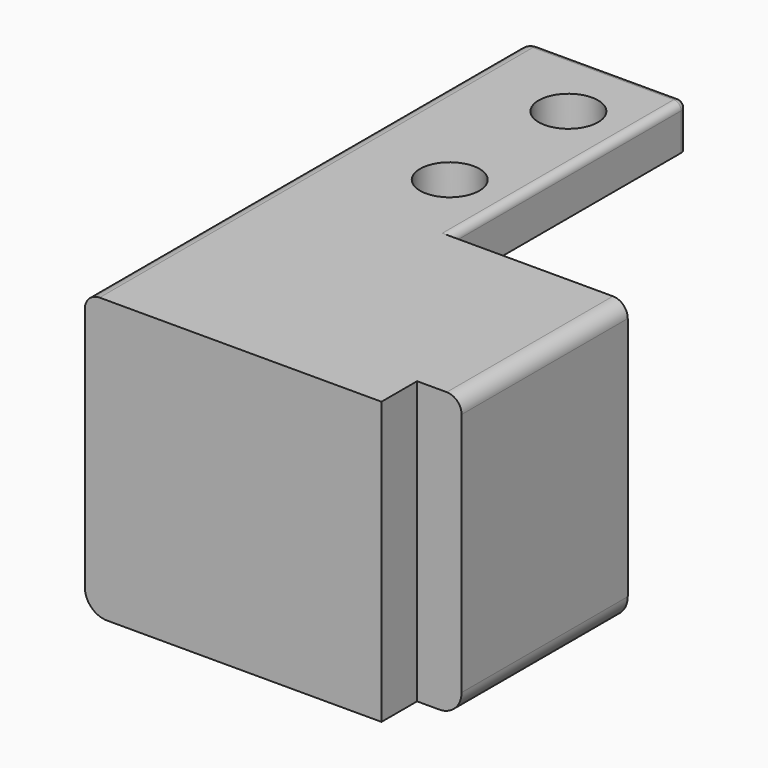
from build123d import *

# Parameters (mm, degrees)
SKETCH_W     = 12
SKETCH_H     = 14
SKETCH_R     = 2.5
PAD_DEPTH    = 3
SKETCH001_W  = 2
SKETCH001_H  = 14
PAD001_DEPTH = 16
SKETCH002_W  = 14
SKETCH002_H  = 3
PAD008_DEPTH = 10
SKETCH004_W  = 14
SKETCH004_H  = 3
PAD004_DEPTH = 8
SKETCH003_W  = 34
SKETCH003_H  = 3
PAD009_DEPTH = 8
SKETCH006_R  = 2
POCKET_DEPTH = 19.001
PAD005_DEPTH = 3
SKETCH008_W  = 20
SKETCH008_H  = 19
PAD006_DEPTH = 3
SKETCH009_W  = 2
SKETCH009_H  = 19
PAD007_DEPTH = 2
FILLET_R     = 1.5
FILLET001_R  = 1.5
FILLET002_R  = 1
FILLET003_R  = 1
FILLET004_R  = 0.5
FILLET005_R  = 0.5


with BuildPart() as part:
    # Sketch → Pad (new body)
    with BuildSketch(Plane.XY):
        with Locations((1, 0)):
            Rectangle(SKETCH_W, SKETCH_H)
        Circle(SKETCH_R, mode=Mode.SUBTRACT)
    extrude(amount=PAD_DEPTH)

    # Sketch001 (on Face7 of Pad) → Pad001 (join)
    with BuildSketch(Plane.XY.offset(3)):
        with Locations((6, 0)):
            Rectangle(SKETCH001_W, SKETCH001_H)
    extrude(amount=PAD001_DEPTH)

    # Sketch002 (on Face10 of Pad001) → Pad008 (join)
    with BuildSketch(Plane(origin=(5, 0, 0), x_dir=(0, -1, 0), z_dir=(-1, 0, 0))):
        with Locations((0, 17.5)):
            Rectangle(SKETCH002_W, SKETCH002_H)
    extrude(amount=PAD008_DEPTH)

    # Sketch004 → Pad004 (join)
    with BuildSketch(Plane(origin=(-5, 0, 0), x_dir=(0, -1, 0), z_dir=(-1, 0, 0))):
        with Locations((0, 1.5)):
            Rectangle(SKETCH004_W, SKETCH004_H)
    extrude(amount=PAD004_DEPTH)

    # Sketch003 → Pad009 (join)
    with BuildSketch(Plane(origin=(-5, 0, 0), x_dir=(0, -1, 0), z_dir=(-1, 0, 0))):
        with Locations((-10, 17.5)):
            Rectangle(SKETCH003_W, SKETCH003_H)
    extrude(amount=PAD009_DEPTH)

    # Sketch006 → Pocket (cut, through all)
    with BuildSketch(Plane.XY.offset(19)):
        with Locations((-9, 22)):
            Circle(SKETCH006_R)
        with Locations((-9, 12)):
            Circle(SKETCH006_R)
    extrude(amount=-POCKET_DEPTH, mode=Mode.SUBTRACT)

    # Sketch007 (on Face26 of Pocket) → Pad005 (join)
    with BuildSketch(Plane(origin=(-13, 0, 0), x_dir=(0, -1, 0), z_dir=(-1, 0, 0))):
        Polygon((-27, 19), (7, 19), (7, 0), (-7, 0), (-27, 16), align=None)
    extrude(amount=PAD005_DEPTH)

    # Sketch008 (on Face10 of Pad005) → Pad006 (join)
    with BuildSketch(Plane.XZ.offset(7)):
        with Locations((-6, 9.5)):
            Rectangle(SKETCH008_W, SKETCH008_H)
    extrude(amount=PAD006_DEPTH)

    # Sketch009 (on Face15 of Pad006) → Pad007 (join)
    with BuildSketch(Plane(origin=(5, 0, 0), x_dir=(0, -1, 0), z_dir=(-1, 0, 0))):
        with Locations((6, 9.5)):
            Rectangle(SKETCH009_W, SKETCH009_H)
    extrude(amount=PAD007_DEPTH)

    # Fillet
    fillet_edges = [part.edges().sort_by_distance(p)[0] for p in [
        (7, 0, 0),
    ]]
    fillet(fillet_edges, radius=FILLET_R)

    # Fillet001
    fillet001_edges = [part.edges().sort_by_distance(p)[0] for p in [
        (-16, 0, 0),
    ]]
    fillet(fillet001_edges, radius=FILLET001_R)

    # Fillet002
    fillet002_edges = [part.edges().sort_by_distance(p)[0] for p in [
        (7, 0, 19),
    ]]
    fillet(fillet002_edges, radius=FILLET002_R)

    # Fillet003
    fillet003_edges = [part.edges().sort_by_distance(p)[0] for p in [
        (-16, 10, 19),
    ]]
    fillet(fillet003_edges, radius=FILLET003_R)

    # Fillet004
    fillet004_edges = [part.edges().sort_by_distance(p)[0] for p in [
        (-5, 17, 19),
    ]]
    fillet(fillet004_edges, radius=FILLET004_R)

    # Fillet005
    fillet005_edges = [part.edges().sort_by_distance(p)[0] for p in [
        (-14, 27, 19),
        (-9.25, 27, 19),
    ]]
    fillet(fillet005_edges, radius=FILLET005_R)


solid = part.part
